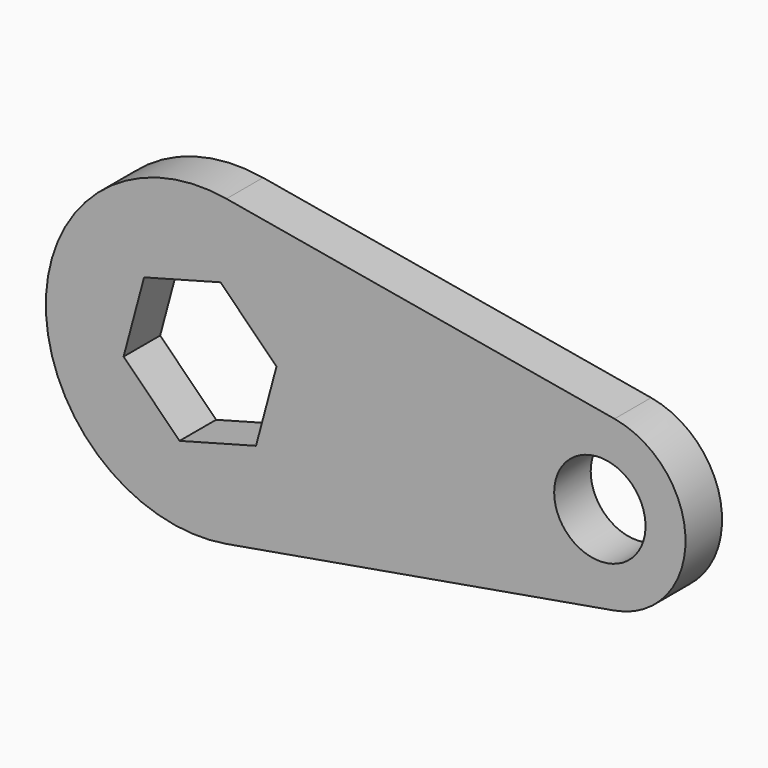
from build123d import *

# Parameters (mm, degrees)
F1_DEPTH = 8


with BuildPart() as f1:
    # F0 (on Front) → F1 (new body)
    with BuildSketch(Plane.XZ):
        with BuildLine():
            Line((72.5714285714, 14.7779482711), (4.6285714286, 26.6003068879))
            ThreePointArc((4.6285714286, 26.6003068879), (-27, 0), (4.6285714286, -26.6003068879))
            Line((4.6285714286, -26.6003068879), (72.5714285714, -14.7779482711))
            ThreePointArc((72.5714285714, -14.7779482711), (85, 0), (72.5714285714, 14.7779482711))
        make_face()
        Polygon((3.5863018887, 13.3842608598), (13.3842608598, 3.5863018887), (12.4233141649, 0), (9.7979589711, -9.7979589711), (-3.5863018887, -13.3842608598), (-13.3842608598, -3.5863018887), (-9.7979589711, 9.7979589711), align=None, mode=Mode.SUBTRACT)
        with BuildLine():
            ThreePointArc((78, 0), (70, -8), (62, 0))
            ThreePointArc((62, 0), (70, 8), (78, 0))
        make_face(mode=Mode.SUBTRACT)
    extrude(amount=F1_DEPTH)


solid = f1.part
